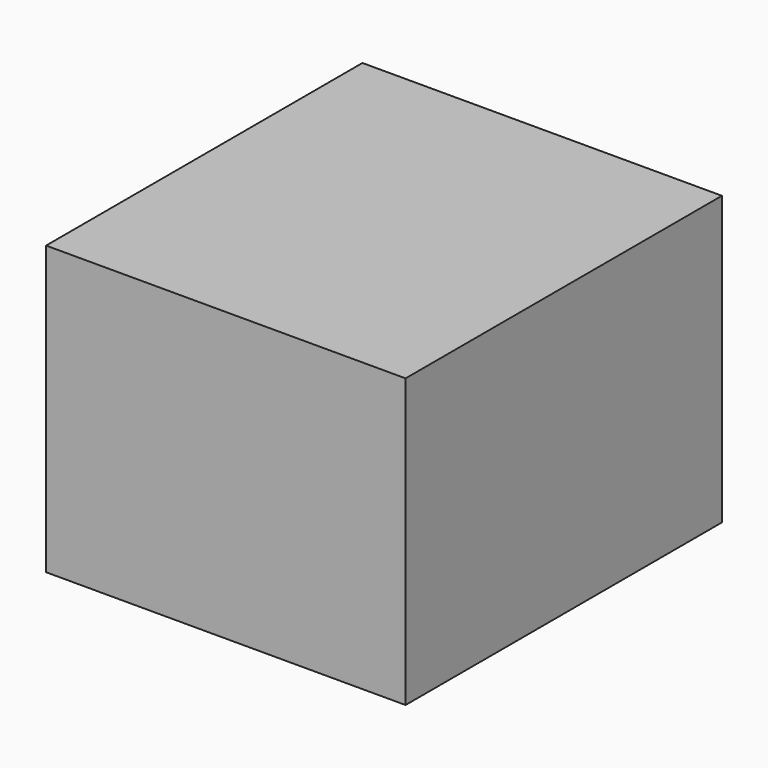
from build123d import *

# Parameters (mm, degrees)
SKETCH_W  = 500
SKETCH_H  = 550
PAD_DEPTH = 400


with BuildPart() as part:
    # Sketch → Pad (new body)
    with BuildSketch(Plane.XY):
        Rectangle(SKETCH_W, SKETCH_H)
    extrude(amount=PAD_DEPTH)


solid = part.part
